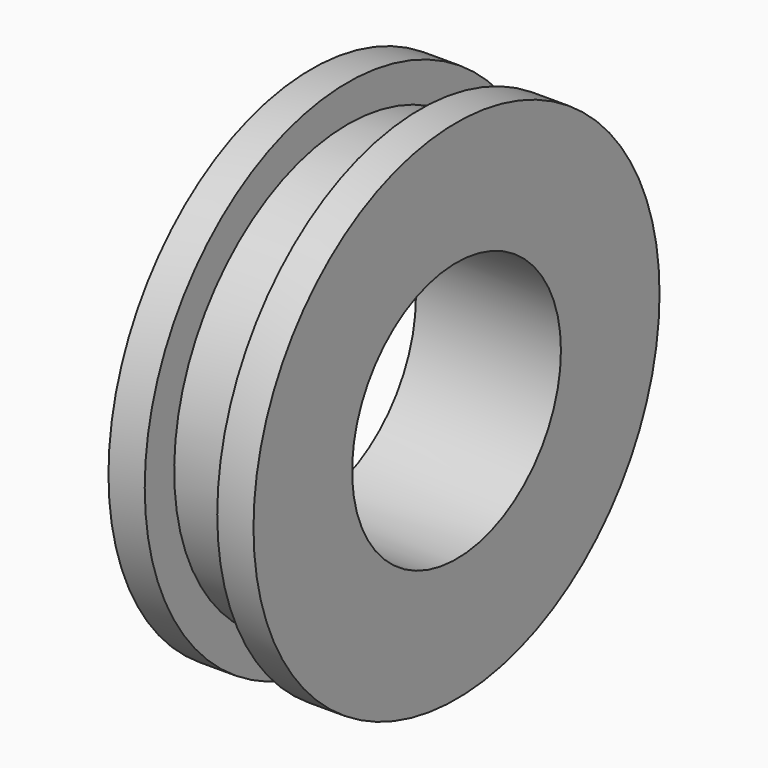
from build123d import *

# Parameters (mm, degrees)
F0_R     = 5.55625
F0_R_2   = 2.8575
F1_DEPTH = 3.175
F2_W     = 1.5875
F2_H     = 0.80645


with BuildPart() as f1:
    # F0 (on Right) → F1 (new body)
    with BuildSketch(Plane.YZ):
        Circle(F0_R)
        Circle(F0_R_2, mode=Mode.SUBTRACT)
    extrude(amount=F1_DEPTH)

    # F2 (on Front) → F3 (revolve, cut)
    with BuildSketch(Plane.XZ):
        with Locations((1.5875, 5.153025)):
            Rectangle(F2_W, F2_H)
    revolve(axis=Axis((-3.449974, 0, 0), (-1, 0, 0)), mode=Mode.SUBTRACT)


solid = f1.part
